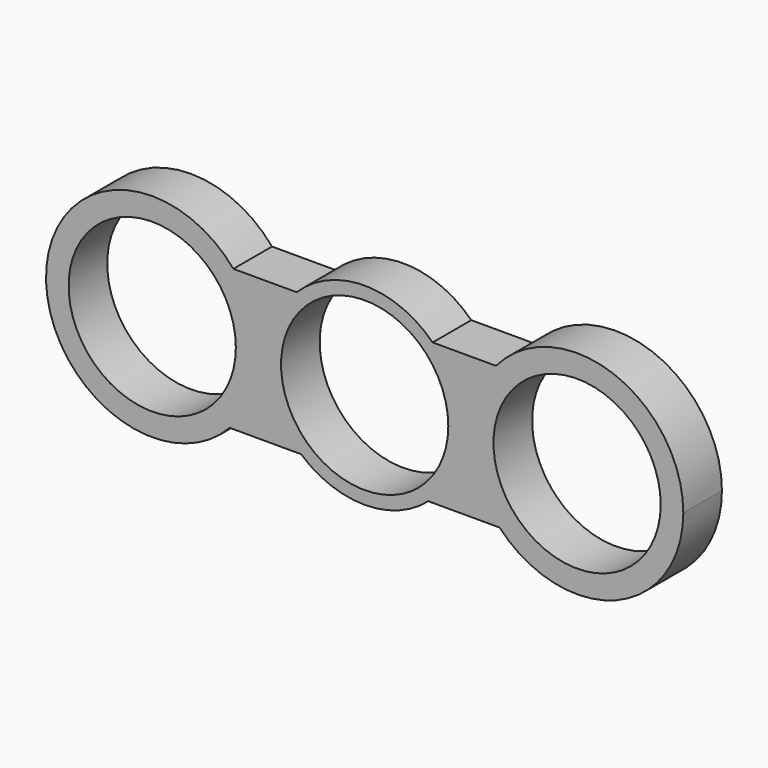
from build123d import *

# Parameters (mm, degrees)
F0_R     = 10.9982
F1_DEPTH = 6.35


with BuildPart() as f1:
    # F0 (on Front) → F1 (new body)
    with BuildSketch(Plane.XZ):
        with BuildLine():
            ThreePointArc((-17.759796, -9.553773), (-14.955764, -5.134012), (-13.975202, 0.007523))
            ThreePointArc((-13.975202, 0.007523), (-14.8243, 4.80365), (-17.268377, 9.016758))
            ThreePointArc((-17.268377, 9.016758), (-41.910314, 0.377072), (-17.759796, -9.553773))
        make_face()
        with Locations((-27.945202, 0.007523)):
            Circle(F0_R, mode=Mode.SUBTRACT)
        with BuildLine():
            ThreePointArc((-17.268377, 9.016758), (-14.8243, 4.80365), (-13.975202, 0.007523))
            ThreePointArc((-13.975202, 0.007523), (-14.955764, -5.134012), (-17.759796, -9.553773))
            Line((-17.759796, -9.553773), (-8.367521, -9.553773))
            ThreePointArc((-8.367521, -9.553773), (-12.693894, -0.393782), (-8.943605, 9.016758))
            Line((-8.943605, 9.016758), (-17.268377, 9.016758))
        make_face()
        with BuildLine():
            ThreePointArc((8.943605, 9.016758), (0, 12.7), (-8.943605, 9.016758))
            ThreePointArc((-8.943605, 9.016758), (-12.693894, -0.393782), (-8.367521, -9.553773))
            ThreePointArc((-8.367521, -9.553773), (0, -12.7), (8.367521, -9.553773))
            ThreePointArc((8.367521, -9.553773), (11.566277, -5.245116), (12.7, 0))
            ThreePointArc((12.7, 0), (11.723348, 4.883964), (8.943605, 9.016758))
        make_face()
        Circle(F0_R, mode=Mode.SUBTRACT)
        with BuildLine():
            Line((17.269528, 9.016758), (8.943605, 9.016758))
            ThreePointArc((8.943605, 9.016758), (11.723348, 4.883964), (12.7, 0))
            ThreePointArc((12.7, 0), (11.566277, -5.245116), (8.367521, -9.553773))
            Line((8.367521, -9.553773), (17.747536, -9.553773))
            ThreePointArc((17.747536, -9.553773), (13.974626, -0.359471), (17.269528, 9.016758))
        make_face()
        with BuildLine():
            ThreePointArc((41.91, 0), (32.74075, 13.119211), (17.269528, 9.016758))
            ThreePointArc((17.269528, 9.016758), (13.974626, -0.359471), (17.747536, -9.553773))
            ThreePointArc((17.747536, -9.553773), (33.076739, -12.991336), (41.91, 0))
        make_face()
        with Locations((27.94, 0)):
            Circle(F0_R, mode=Mode.SUBTRACT)
    extrude(amount=F1_DEPTH)


solid = f1.part
